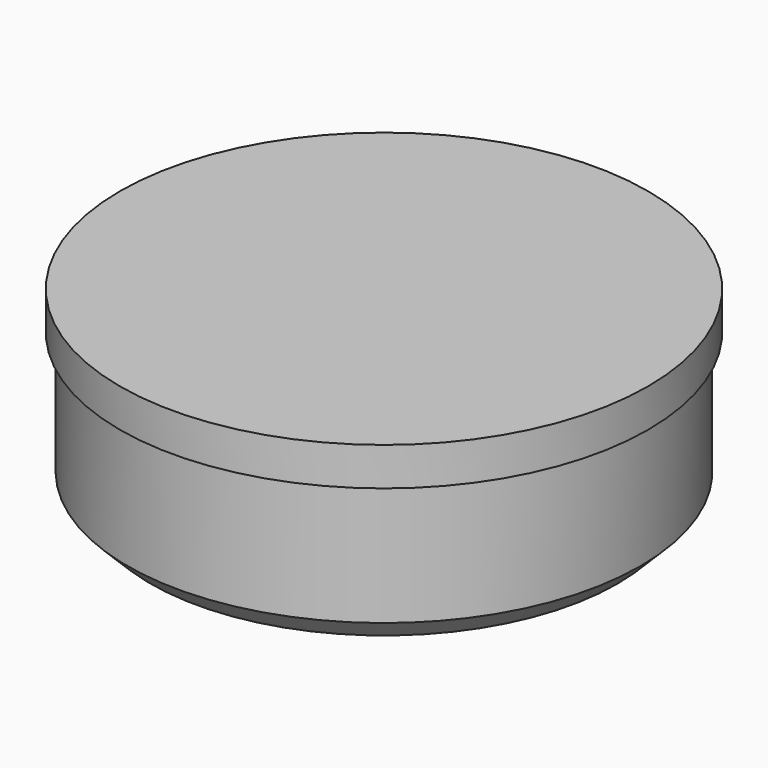
from build123d import *

# Parameters (mm, degrees)
F0_R     = 34.5
F0_R_2   = 34
F0_R_3   = 33.5
F1_DEPTH = 5
F2_DEPTH = 19
F4_SIZE  = 3


with BuildPart() as f1:
    # F0 (on Top) → F1 (new body)
    with BuildSketch(Plane.XY):
        Circle(F0_R)
        Circle(F0_R_2, mode=Mode.SUBTRACT)
        Circle(F0_R_2)
        Circle(F0_R_3, mode=Mode.SUBTRACT)
        Circle(F0_R_3)
    extrude(amount=F1_DEPTH)

    # F0 (on Top) → F2 (join)
    with BuildSketch(Plane.XY):
        Circle(F0_R_3)
    extrude(amount=-F2_DEPTH)

    # F4
    f4_edges = [f1.edges().sort_by_distance(p)[0] for p in [
        (-33.5, 0, -19),
    ]]
    chamfer(f4_edges, length=F4_SIZE)


solid = f1.part
